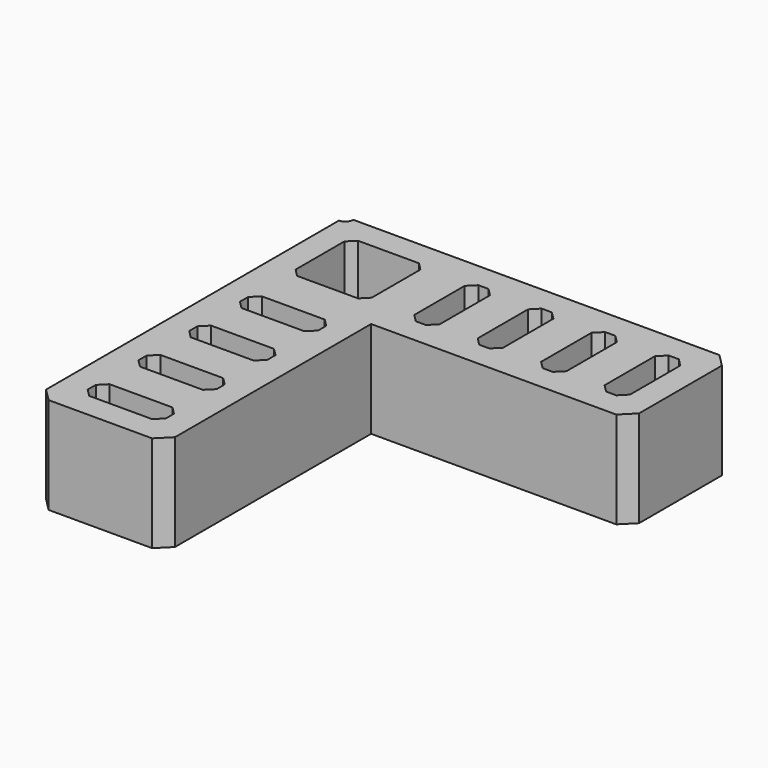
from build123d import *

# Parameters (mm, degrees)
F0_W     = 50.8
F0_H     = 101.6
F0_W_2   = 101.6
F0_H_2   = 50.8
F1_DEPTH = 38.1
F2_W     = 30.8
F2_H     = 10
F2_W_2   = 10
F2_H_2   = 30.8
F2_W_3   = 30
F2_H_3   = 30
F3_DEPTH = 20
F4_SIZE  = 3
F5_SIZE  = 5


with BuildPart() as f1:
    # F0 (on Top) → F1 (new body)
    with BuildSketch(Plane.XY):
        with BuildLine():
            Line((0, 47.625), (0, 0))
            Line((0, 0), (50.8, 0))
            Line((50.8, 0), (50.8, 50.8))
            Line((50.8, 50.8), (3.175, 50.8))
            ThreePointArc((3.175, 50.8), (2.245064, 48.554936), (0, 47.625))
        make_face()
        with Locations((25.4, -50.8)):
            Rectangle(F0_W, F0_H)
        with Locations((101.6, 25.4)):
            Rectangle(F0_W_2, F0_H_2)
    extrude(amount=F1_DEPTH)

    # F2 (on face) → F3 (cut)
    with BuildSketch(Plane.XY.offset(38.1)):
        with Locations((25.4, -86.6)):
            Rectangle(F2_W, F2_H)
        with Locations((25.4, -61.6)):
            Rectangle(F2_W, F2_H)
        with Locations((25.4, -36.6)):
            Rectangle(F2_W, F2_H)
        with Locations((25.4, -11.6)):
            Rectangle(F2_W, F2_H)
        with Locations((137.4, 25.4)):
            Rectangle(F2_W_2, F2_H_2)
        with Locations((112.4, 25.4)):
            Rectangle(F2_W_2, F2_H_2)
        with Locations((87.4, 25.4)):
            Rectangle(F2_W_2, F2_H_2)
        with Locations((62.4, 25.4)):
            Rectangle(F2_W_2, F2_H_2)
        with Locations((25, 25.8)):
            Rectangle(F2_W_3, F2_H_3)
    extrude(amount=-F3_DEPTH, mode=Mode.SUBTRACT)

    # F4
    f4_edges = [f1.edges().sort_by_distance(p)[0] for p in [
        (10, -6.6, 28.1),
        (10, 40.8, 28.1),
        (10, -31.6, 28.1),
        (10, -56.6, 28.1),
        (10, -81.6, 28.1),
        (10, -91.6, 28.1),
        (40.8, -81.6, 28.1),
        (40.8, -91.6, 28.1),
        (40.8, -66.6, 28.1),
        (40.8, -56.6, 28.1),
        (10, -66.6, 28.1),
        (10, -41.6, 28.1),
        (40.8, -31.6, 28.1),
        (40.8, -41.6, 28.1),
        (10, -16.6, 28.1),
        (40.8, -16.6, 28.1),
        (40.8, -6.6, 28.1),
        (10, 10.8, 28.1),
        (40, 40.8, 28.1),
        (40, 10.8, 28.1),
        (57.4, 40.8, 28.1),
        (57.4, 10, 28.1),
        (67.4, 10, 28.1),
        (67.4, 40.8, 28.1),
        (82.4, 40.8, 28.1),
        (82.4, 10, 28.1),
        (92.4, 40.8, 28.1),
        (92.4, 10, 28.1),
        (107.4, 10, 28.1),
        (117.4, 10, 28.1),
        (117.4, 40.8, 28.1),
        (107.4, 40.8, 28.1),
        (132.4, 10, 28.1),
        (142.4, 10, 28.1),
        (142.4, 40.8, 28.1),
        (132.4, 40.8, 28.1),
    ]]
    chamfer(f4_edges, length=F4_SIZE)

    # F5
    f5_edges = [f1.edges().sort_by_distance(p)[0] for p in [
        (0, -101.6, 19.05),
        (50.8, -101.6, 19.05),
        (152.4, 0, 19.05),
        (152.4, 50.8, 19.05),
    ]]
    chamfer(f5_edges, length=F5_SIZE)


solid = f1.part
